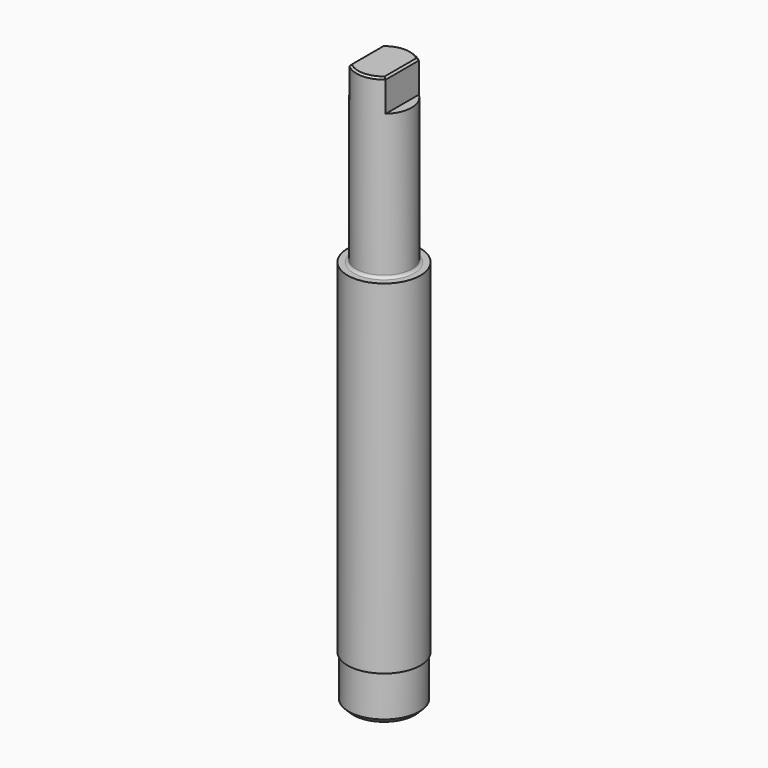
from build123d import *

# Parameters (mm, degrees)
F2_R     = 0.3
F3_SIZE2 = 0.5
F3_SIZE  = 0.5
F4_W     = 4
F4_H     = 6
F5_DEPTH = 3.5
F6_SIZE2 = 0.2
F6_SIZE  = 0.2


with BuildPart() as f1:
    # F0 (on Front) → F1 (revolve)
    with BuildSketch(Plane.XZ):
        Polygon((0, 62.1), (0, 0), (3.875, 0), (3.875, 5), (4, 5), (4, 42.7), (3.025, 42.7), (3.025, 62.1), align=None)
    revolve(axis=Axis((0, 0, 31.05), (0, 0, 1)))

    # F2
    f2_edges = [f1.edges().sort_by_distance(p)[0] for p in [
        (-3.025, 0, 42.7),
    ]]
    fillet(f2_edges, radius=F2_R)

    # F3
    f3_edges = [f1.edges().sort_by_distance(p)[0] for p in [
        (-3.875, 0, 0),
    ]]
    chamfer(f3_edges, length=F3_SIZE, length2=F3_SIZE2)

    # F4 (on face) → F5 (cut)
    with BuildSketch(Plane.XY.offset(62.1)):
        with Locations((-4, 0)):
            Rectangle(F4_W, F4_H)
        with Locations((4, 0)):
            Rectangle(F4_W, F4_H)
    extrude(amount=-F5_DEPTH, mode=Mode.SUBTRACT)

    # F6
    f6_edges = [f1.edges().sort_by_distance(p)[0] for p in [
        (2, 0, 62.1),
        (0, 3.025, 62.1),
        (0, -3.025, 62.1),
        (-2, 0, 62.1),
    ]]
    chamfer(f6_edges, length=F6_SIZE, length2=F6_SIZE2)


solid = f1.part
